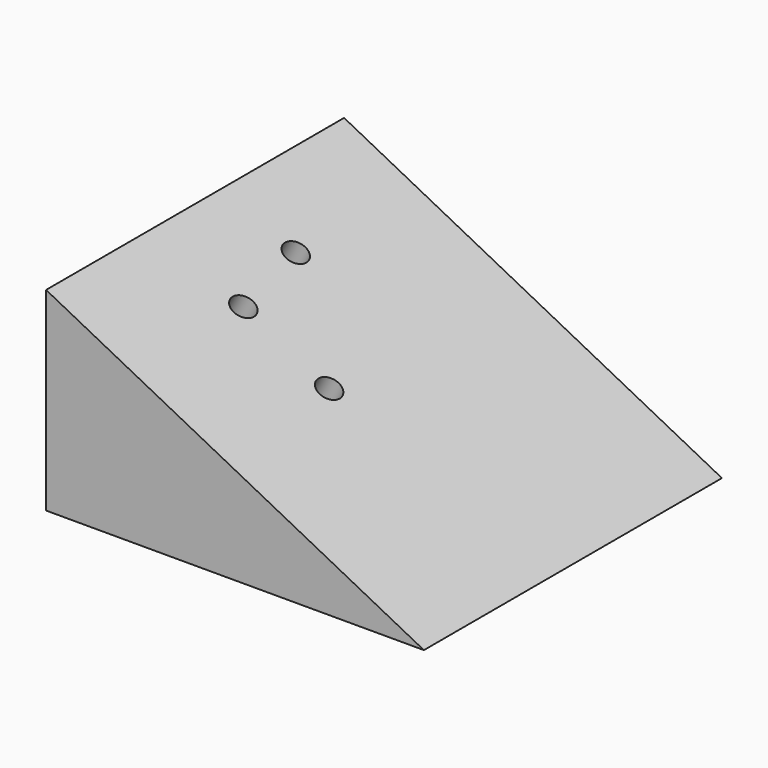
from build123d import *

# Parameters (mm, degrees)
F1_DEPTH = 52.832
F3_D     = 6.7564


with BuildPart() as f1:
    # F0 (on Front) → F1 (new body, symmetric)
    with BuildSketch(Plane.XZ):
        Polygon((-107.1643605828, 0), (0, 0), (-107.1643605828, 55.1048591733), align=None)
    extrude(amount=F1_DEPTH, both=True)

    # F3 (through all)
    with Locations(Plane(origin=(0, 0, 0), x_dir=(0.8893156139, 0, -0.4572939305), z_dir=(0.4572939305, 0, 0.8893156139))):
        with Locations((-98.2478260994, 10.949678719), (-93.2777896523, -13.1526906043), (-65.9143328667, -13.1526906043)):
            Hole(F3_D / 2)


solid = f1.part
